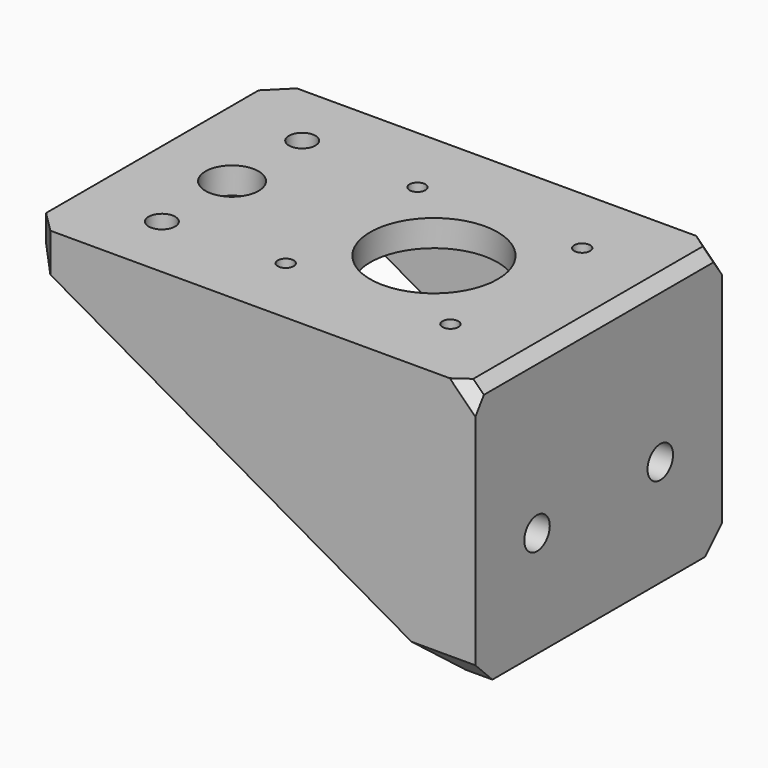
from build123d import *

# Parameters (mm, degrees)
SKETCH_W        = 84
SKETCH_H        = 58
SKETCH_R        = 1.5
SKETCH_R_2      = 12
SKETCH_R_3      = 2.5
SKETCH_R_4      = 5
PAD_DEPTH       = 50
SKETCH001_W     = 79
SKETCH001_H     = 48
POCKET_DEPTH    = 45
POCKET001_DEPTH = 58.001
SKETCH003_R     = 3
POCKET002_DEPTH = 84.001
CHAMFER_SIZE    = 4
CHAMFER001_SIZE = 4
CHAMFER002_SIZE = 2
CHAMFER003_SIZE = 2


with BuildPart() as part:
    # Sketch → Pad (new body)
    with BuildSketch(Plane.XY):
        with Locations((42, 29)):
            Rectangle(SKETCH_W, SKETCH_H)
        with Locations((37.5, 44.5)):
            Circle(SKETCH_R, mode=Mode.SUBTRACT)
        with Locations((68.5, 44.5)):
            Circle(SKETCH_R, mode=Mode.SUBTRACT)
        with Locations((68.5, 13.5)):
            Circle(SKETCH_R, mode=Mode.SUBTRACT)
        with Locations((37.5, 13.5)):
            Circle(SKETCH_R, mode=Mode.SUBTRACT)
        with Locations((53, 29)):
            Circle(SKETCH_R_2, mode=Mode.SUBTRACT)
        with Locations((15, 45.5)):
            Circle(SKETCH_R_3, mode=Mode.SUBTRACT)
        with Locations((15, 12.5)):
            Circle(SKETCH_R_3, mode=Mode.SUBTRACT)
        with Locations((15, 29)):
            Circle(SKETCH_R_4, mode=Mode.SUBTRACT)
    extrude(amount=PAD_DEPTH)

    # Sketch001 (on Face13 of Pad) → Pocket (cut)
    with BuildSketch(Plane(origin=(0, 0, 0), x_dir=(1, 0, 0), z_dir=(0, 0, -1))):
        with Locations((39.5, -29)):
            Rectangle(SKETCH001_W, SKETCH001_H)
    extrude(amount=-POCKET_DEPTH, mode=Mode.SUBTRACT)

    # Sketch002 (on Face9 of Pocket) → Pocket001 (cut, through all)
    with BuildSketch(Plane.XZ):
        Polygon((0, 45), (0, 0), (79, 0), align=None)
    extrude(amount=-POCKET001_DEPTH, mode=Mode.SUBTRACT)

    # Sketch003 (on Face4 of Pocket001) → Pocket002 (cut, through all)
    with BuildSketch(Plane.YZ.offset(84)):
        with Locations((14.5, 20)):
            Circle(SKETCH003_R)
        with Locations((43.5, 20)):
            Circle(SKETCH003_R)
    extrude(amount=-POCKET002_DEPTH, mode=Mode.SUBTRACT)

    # Chamfer
    chamfer_edges = [part.edges().sort_by_distance(p)[0] for p in [
        (0, 58, 47.5),
        (0, 0, 47.5),
    ]]
    chamfer(chamfer_edges, length=CHAMFER_SIZE)

    # Chamfer001
    chamfer001_edges = [part.edges().sort_by_distance(p)[0] for p in [
        (81.5, 0, 0),
        (81.5, 58, 0),
    ]]
    chamfer(chamfer001_edges, length=CHAMFER001_SIZE)

    # Chamfer002
    chamfer002_edges = [part.edges().sort_by_distance(p)[0] for p in [
        (84, 29, 50),
    ]]
    chamfer(chamfer002_edges, length=CHAMFER002_SIZE)

    # Chamfer003
    chamfer003_edges = [part.edges().sort_by_distance(p)[0] for p in [
        (83, 0, 49),
        (83, 58, 49),
    ]]
    chamfer(chamfer003_edges, length=CHAMFER003_SIZE)


solid = part.part
